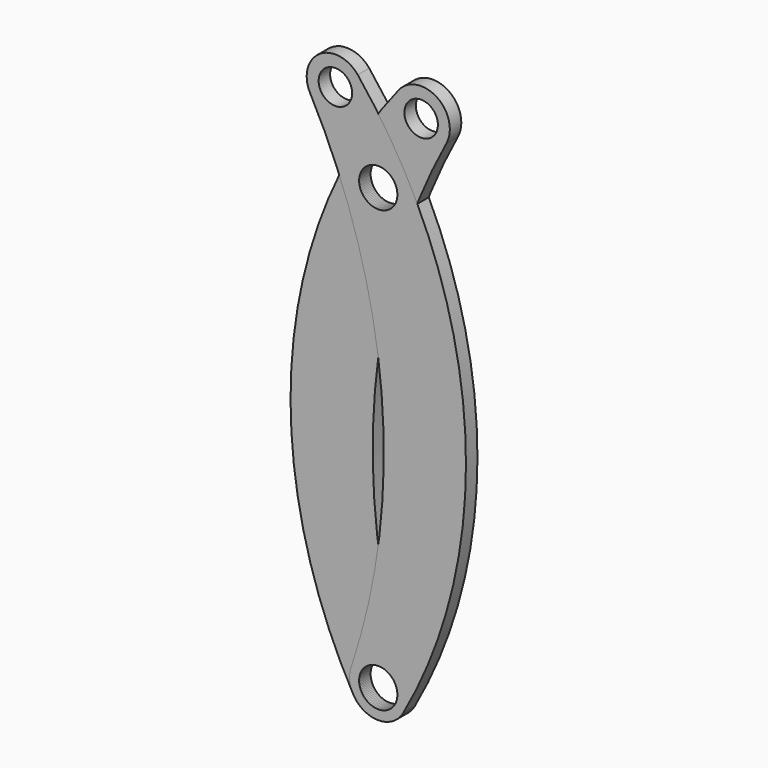
from build123d import *

# Parameters (mm, degrees)
F0_R     = 25.4
F0_R_2   = 22.225
F1_DEPTH = 19.05


with BuildPart() as f1:
    # F0 (on Front) → F1 (new body)
    with BuildSketch(Plane.XZ):
        with BuildLine():
            ThreePointArc((27.221969, 123.01068), (-114.165221, -230.659491), (-33.226283, -602.844681))
            ThreePointArc((-33.226283, -602.844681), (16.315724, -618.629742), (35.470201, -570.290476))
            ThreePointArc((35.470201, -570.290476), (-4.434873, -238.895265), (90.47992, 81.114709))
            ThreePointArc((90.47992, 81.114709), (77.944569, 130.891805), (27.221969, 123.01068))
        make_face()
        with Locations((0, -584.2)):
            Circle(F0_R, mode=Mode.SUBTRACT)
        Circle(F0_R, mode=Mode.SUBTRACT)
        with Locations((56.906536, 99.126869)):
            Circle(F0_R_2, mode=Mode.SUBTRACT)
    extrude(amount=F1_DEPTH)


with BuildPart() as f2_1:
    # F2: instance of F1
    add(f1.part.mirror(Plane.YZ))


solid = Compound([f1.part, f2_1.part])
